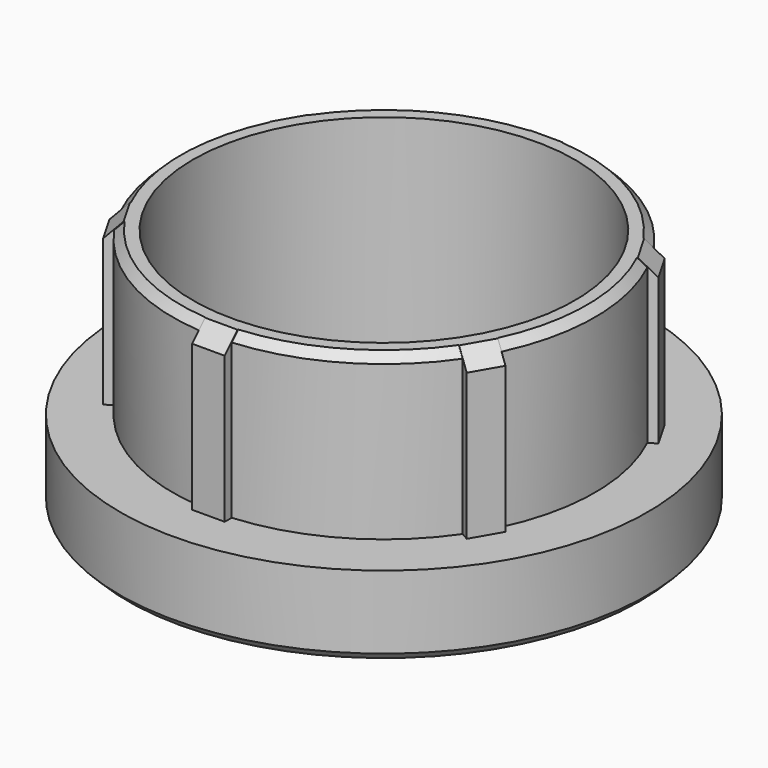
from build123d import *

# Parameters (mm, degrees)
F2_SIZE  = 3
F3_R     = 2.5
F4_W     = 4
F4_H     = 1.5
F5_DEPTH = 20
F6_SIZE  = 1
F7_SIZE  = 2
F8_SIZE  = 1


with BuildPart() as f1:
    # F0 (on Front) → F1 (revolve)
    with BuildSketch(Plane.XZ):
        Polygon((-32.5, 0), (-23.5, 0), (-23.5, 30), (-26, 30), (-26, 10), (-32.5, 10), align=None)
    revolve(axis=Axis((0, 0, 27.1835356757), (0, 0, 1)))

    # F2
    f2_edges = [f1.edges().sort_by_distance(p)[0] for p in [
        (23.5, 0, 0),
    ]]
    chamfer(f2_edges, length=F2_SIZE)

    # F3
    f3_edges = [f1.edges().sort_by_distance(p)[0] for p in [
        (23.5, 0, 3),
    ]]
    fillet(f3_edges, radius=F3_R)

    # F4 (on face) → F5 (join, through all)
    with BuildSketch(Plane.XY.offset(30)):
        with Locations((0, -26.25)):
            Rectangle(F4_W, F4_H)
        Polygon((22.3826859022, -15.2320508076), (24.3826859022, -11.7679491924), (23.0836477965, -11.0179491924), (21.0836477965, -14.4820508076), align=None)
        Polygon((24.3826859022, 11.7679491924), (22.3826859022, 15.2320508076), (21.0836477965, 14.4820508076), (23.0836477965, 11.0179491924), align=None)
        with Locations((0, 26.25)):
            Rectangle(F4_W, F4_H)
        Polygon((-22.3826859022, 15.2320508076), (-24.3826859022, 11.7679491924), (-23.0836477965, 11.0179491924), (-21.0836477965, 14.4820508076), align=None)
        Polygon((-24.3826859022, -11.7679491924), (-22.3826859022, -15.2320508076), (-21.0836477965, -14.4820508076), (-23.0836477965, -11.0179491924), align=None)
    extrude(amount=-F5_DEPTH)

    # F6
    f6_edges = [f1.edges().sort_by_distance(p)[0] for p in [
        (-26, 0, 30),
        (-13, 22.51666, 30),
        (13, 22.51666, 30),
        (26, 0, 30),
        (13, -22.51666, 30),
        (-13, -22.51666, 30),
    ]]
    chamfer(f6_edges, length=F6_SIZE)

    # F7
    f7_edges = [f1.edges().sort_by_distance(p)[0] for p in [
        (23.382686, -13.5, 30),
        (23.382686, 13.5, 30),
        (0, 27, 30),
        (-23.382686, 13.5, 30),
        (-23.382686, -13.5, 30),
        (0, -27, 30),
    ]]
    chamfer(f7_edges, length=F7_SIZE)

    # F8
    f8_edges = [f1.edges().sort_by_distance(p)[0] for p in [
        (32.5, 0, 0),
    ]]
    chamfer(f8_edges, length=F8_SIZE)


solid = f1.part
